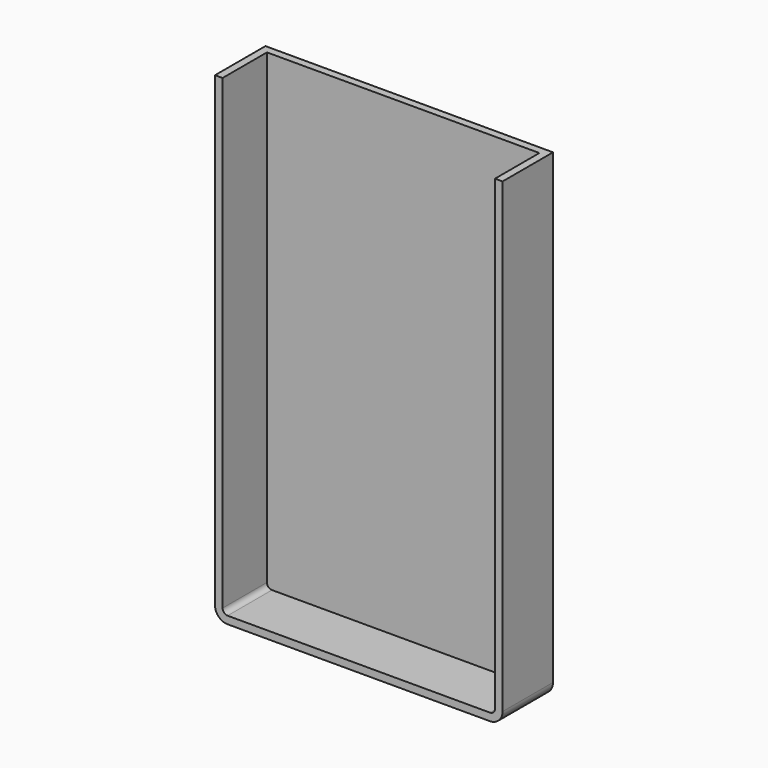
from build123d import *

# Parameters (mm, degrees)
F0_W     = 114
F0_H     = 190
F1_DEPTH = 25
F2_R     = 5
F3_T     = -3


with BuildPart() as f1:
    # F0 (on Front) → F1 (new body)
    with BuildSketch(Plane.XZ):
        Rectangle(F0_W, F0_H)
    extrude(amount=F1_DEPTH)

    # F2
    f2_edges = [f1.edges().sort_by_distance(p)[0] for p in [
        (57, -12.5, -95),
        (-57, -12.5, -95),
    ]]
    fillet(f2_edges, radius=F2_R)

    # F3
    f3_openings = [f1.faces().sort_by_distance(p)[0] for p in [
        (0, -25, 0.046532),
        (0, -12.5, 95),
    ]]
    offset(amount=F3_T, openings=f3_openings)


solid = f1.part
